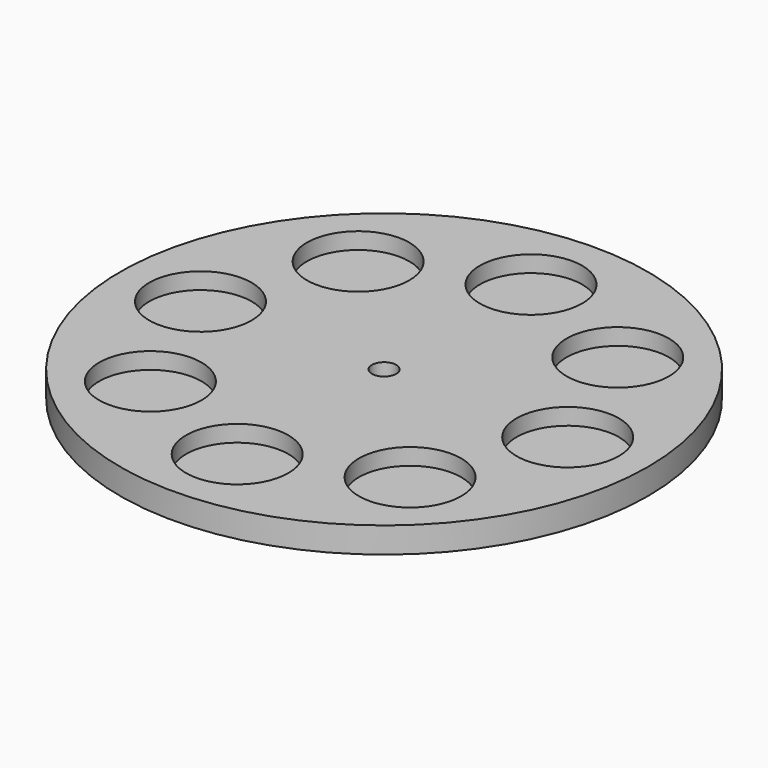
from build123d import *

# Parameters (mm, degrees)
F0_R     = 57.5
F0_R_2   = 11.15
F0_R_3   = 2.65
F1_DEPTH = 3.6
F2_DEPTH = 2


with BuildPart() as f1:
    # F0 (on Top) → F1 (new body)
    with BuildSketch(Plane.XY):
        Circle(F0_R)
        with Locations((-28.2842712475, -28.2842712475)):
            Circle(F0_R_2, mode=Mode.SUBTRACT)
        with Locations((0, -40)):
            Circle(F0_R_2, mode=Mode.SUBTRACT)
        with Locations((28.2842712475, -28.2842712475)):
            Circle(F0_R_2, mode=Mode.SUBTRACT)
        with Locations((-40, 0)):
            Circle(F0_R_2, mode=Mode.SUBTRACT)
        with Locations((-28.2842712475, 28.2842712475)):
            Circle(F0_R_2, mode=Mode.SUBTRACT)
        Circle(F0_R_3, mode=Mode.SUBTRACT)
        with Locations((28.2842712475, 28.2842712475)):
            Circle(F0_R_2, mode=Mode.SUBTRACT)
        with Locations((40, 0)):
            Circle(F0_R_2, mode=Mode.SUBTRACT)
        with Locations((0, 40)):
            Circle(F0_R_2, mode=Mode.SUBTRACT)
    extrude(amount=F1_DEPTH)

    # F0 (on Top) → F2 (join)
    with BuildSketch(Plane.XY):
        Circle(F0_R)
        with Locations((-28.2842712475, -28.2842712475)):
            Circle(F0_R_2, mode=Mode.SUBTRACT)
        with Locations((0, -40)):
            Circle(F0_R_2, mode=Mode.SUBTRACT)
        with Locations((28.2842712475, -28.2842712475)):
            Circle(F0_R_2, mode=Mode.SUBTRACT)
        with Locations((-40, 0)):
            Circle(F0_R_2, mode=Mode.SUBTRACT)
        with Locations((-28.2842712475, 28.2842712475)):
            Circle(F0_R_2, mode=Mode.SUBTRACT)
        Circle(F0_R_3, mode=Mode.SUBTRACT)
        with Locations((28.2842712475, 28.2842712475)):
            Circle(F0_R_2, mode=Mode.SUBTRACT)
        with Locations((40, 0)):
            Circle(F0_R_2, mode=Mode.SUBTRACT)
        with Locations((0, 40)):
            Circle(F0_R_2, mode=Mode.SUBTRACT)
        with Locations((-28.2842712475, -28.2842712475)):
            Circle(F0_R_2)
        with Locations((0, -40)):
            Circle(F0_R_2)
        with Locations((28.2842712475, -28.2842712475)):
            Circle(F0_R_2)
        with Locations((40, 0)):
            Circle(F0_R_2)
        with Locations((28.2842712475, 28.2842712475)):
            Circle(F0_R_2)
        with Locations((0, 40)):
            Circle(F0_R_2)
        with Locations((-28.2842712475, 28.2842712475)):
            Circle(F0_R_2)
        with Locations((-40, 0)):
            Circle(F0_R_2)
    extrude(amount=-F2_DEPTH)


solid = f1.part
